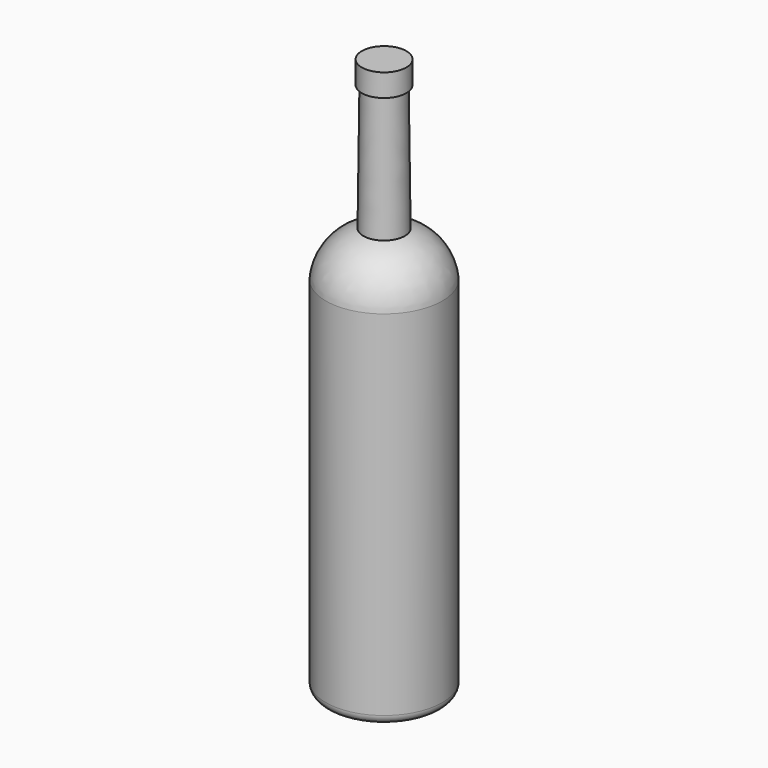
from build123d import *


with BuildPart() as f1:
    # F0 (on Front) → F1 (revolve)
    with BuildSketch(Plane.XZ):
        with BuildLine():
            Line((12.516467, 3.574154), (12.516467, 79.36494))
            ThreePointArc((12.516467, 79.36494), (10.012359, 85.47371), (4.46184, 89.048535))
            Line((4.46184, 89.048535), (4.140747, 116.172656))
            Line((4.140747, 116.172656), (4.782932, 116.172656))
            Line((4.782932, 116.172656), (4.782932, 121.027052))
            Line((4.782932, 121.027052), (0, 121.027052))
            Line((0, 121.027052), (0, 1.401564))
            Line((0, 1.401564), (10.330403, 1.401564))
            Line((10.330403, 1.401564), (10.516467, 1.401564))
            ThreePointArc((10.516467, 1.401564), (11.93068, 1.98735), (12.516467, 3.401564))
            Line((12.516467, 3.401564), (12.516467, 3.574154))
        make_face()
    revolve(axis=Axis((0, 0, 61.214308), (0, 0, 1)))


solid = f1.part
